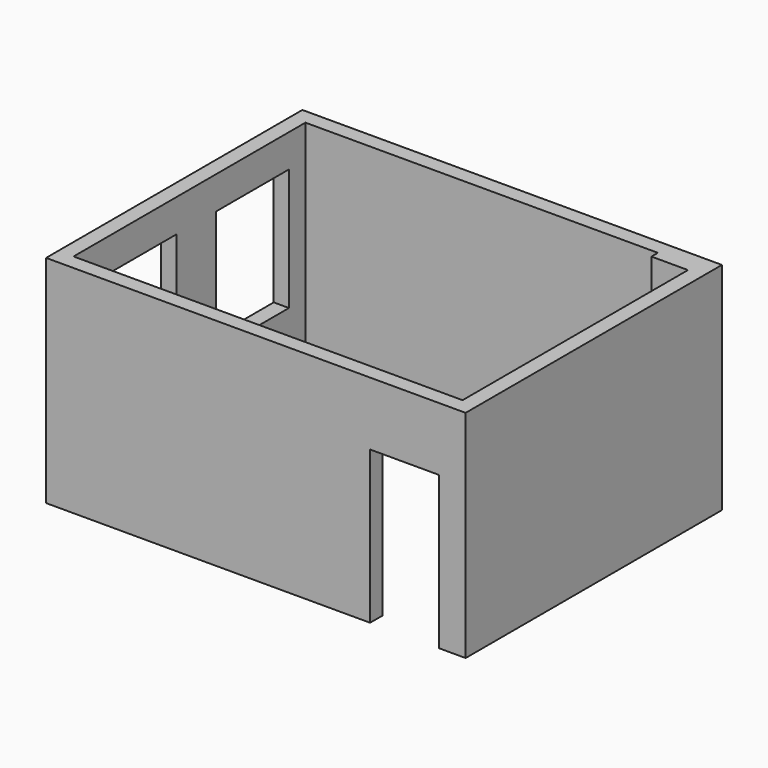
from build123d import *

# Parameters (mm, degrees)
F0_W     = 2
F0_H     = 6.473958
F1_DEPTH = 28.3
F2_W     = 2
F2_H     = 8
F3_DEPTH = 12
F4_W     = 2
F4_H     = 4.3
F5_DEPTH = 35
F6_W     = 2
F6_H     = 8.3
F7_DEPTH = 25


with BuildPart() as f1:
    # F0 (on Top) → F1 (new body)
    with BuildSketch(Plane.XY):
        Polygon((55.053259, 41.889014), (0.053259, 41.889014), (0.053259, 37.194386), (2.053259, 37.194386), (2.053259, 39.889014), (48.263833, 39.889014), (48.263833, 38.826488), (53.053259, 38.826488), (53.053259, 1.889014), (51.531006, 1.889014), (51.531006, -0.110986), (55.053259, -0.110986), align=None)
        Polygon((0.053259, 6.720428), (0.053259, -0.110986), (42.531006, -0.110986), (42.531006, 1.889014), (2.053259, 1.889014), (2.053259, 6.720428), align=None)
        with Locations((1.053259, 21.957407)):
            Rectangle(F0_W, F0_H)
    extrude(amount=F1_DEPTH)

    # F2 (on face) → F3 (join)
    with BuildSketch(Plane.XZ.offset(-37.194386)):
        with Locations((1.053259, 4)):
            Rectangle(F2_W, F2_H)
    extrude(amount=F3_DEPTH)

    # F4 (on face) → F5 (join)
    with BuildSketch(Plane.XZ.offset(-37.194386)):
        with Locations((1.053259, 26.15)):
            Rectangle(F4_W, F4_H)
    extrude(amount=F5_DEPTH)

    # F6 (on face) → F7 (join)
    with BuildSketch(Plane(origin=(51.531006, 0, 0), x_dir=(0, -1, 0), z_dir=(-1, 0, 0))):
        with Locations((-0.889014, 24.15)):
            Rectangle(F6_W, F6_H)
    extrude(amount=F7_DEPTH)


solid = f1.part
